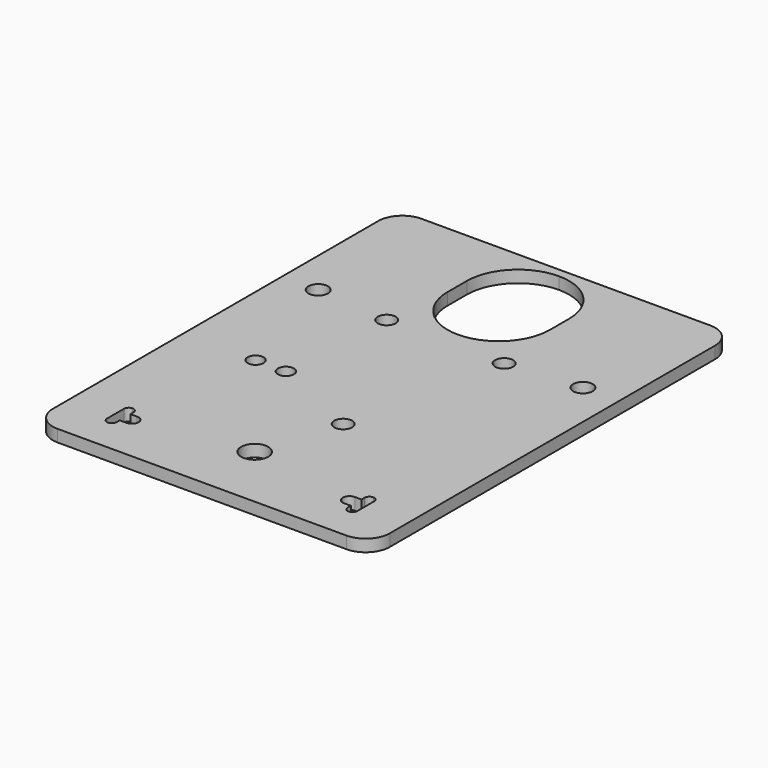
from build123d import *

# Parameters (mm, degrees)
F0_R     = 2.1082
F0_R_2   = 3.5687
F0_R_3   = 2.3749
F0_R_4   = 2.5781
F1_DEPTH = 3.175


with BuildPart() as f1:
    # F0 (on Top) → F1 (new body)
    with BuildSketch(Plane.XY):
        with BuildLine():
            Line((43.513716, 70.612), (-32.686284, 70.612))
            ThreePointArc((-32.686284, 70.612), (-37.176412, 68.752128), (-39.036284, 64.262))
            Line((-39.036284, 64.262), (-39.036284, -43.053))
            ThreePointArc((-39.036284, -43.053), (-37.176412, -47.543128), (-32.686284, -49.403))
            Line((-32.686284, -49.403), (43.513716, -49.403))
            ThreePointArc((43.513716, -49.403), (48.003844, -47.543128), (49.863716, -43.053))
            Line((49.863716, -43.053), (49.863716, 64.262))
            ThreePointArc((49.863716, 64.262), (48.003844, 68.752128), (43.513716, 70.612))
        make_face()
        with BuildLine():
            ThreePointArc((-26.336284, -32.6136), (-25.438259, -32.985574), (-25.066284, -33.8836))
            Line((-25.066284, -33.8836), (-25.066284, -34.8996))
            Line((-25.066284, -34.8996), (-23.288284, -34.8996))
            ThreePointArc((-23.288284, -34.8996), (-22.031048, -35.420364), (-21.510284, -36.6776))
            ThreePointArc((-21.510284, -36.6776), (-22.031048, -37.934836), (-23.288284, -38.4556))
            Line((-23.288284, -38.4556), (-25.066284, -38.4556))
            Line((-25.066284, -38.4556), (-25.066284, -39.4716))
            ThreePointArc((-25.066284, -39.4716), (-25.438259, -40.369626), (-26.336284, -40.7416))
            ThreePointArc((-26.336284, -40.7416), (-27.23431, -40.369626), (-27.606284, -39.4716))
            Line((-27.606284, -39.4716), (-27.606284, -33.8836))
            ThreePointArc((-27.606284, -33.8836), (-27.23431, -32.985574), (-26.336284, -32.6136))
        make_face(mode=Mode.SUBTRACT)
        with Locations((-19.986284, 0)):
            Circle(F0_R, mode=Mode.SUBTRACT)
        with Locations((-11.985284, 0)):
            Circle(F0_R, mode=Mode.SUBTRACT)
        with Locations((5.413716, -32.0294)):
            Circle(F0_R_2, mode=Mode.SUBTRACT)
        with BuildLine():
            Line((35.893716, -34.8996), (35.893716, -33.8836))
            ThreePointArc((35.893716, -33.8836), (36.26569, -32.985574), (37.163716, -32.6136))
            ThreePointArc((37.163716, -32.6136), (38.061741, -32.985574), (38.433716, -33.8836))
            Line((38.433716, -33.8836), (38.433716, -39.4716))
            ThreePointArc((38.433716, -39.4716), (38.061741, -40.369626), (37.163716, -40.7416))
            ThreePointArc((37.163716, -40.7416), (36.26569, -40.369626), (35.893716, -39.4716))
            Line((35.893716, -39.4716), (35.893716, -38.4556))
            Line((35.893716, -38.4556), (34.115716, -38.4556))
            ThreePointArc((34.115716, -38.4556), (32.85848, -37.934836), (32.337716, -36.6776))
            ThreePointArc((32.337716, -36.6776), (32.85848, -35.420364), (34.115716, -34.8996))
            Line((34.115716, -34.8996), (35.893716, -34.8996))
        make_face(mode=Mode.SUBTRACT)
        with Locations((11.916116, -10.9728)):
            Circle(F0_R_3, mode=Mode.SUBTRACT)
        with Locations((-29.511284, 32.5628)):
            Circle(F0_R_4, mode=Mode.SUBTRACT)
        with Locations((-10.080284, 30.861)):
            Circle(F0_R_3, mode=Mode.SUBTRACT)
        with BuildLine():
            Line((-8.086384, 48.4378), (-8.086384, 54.7878))
            ThreePointArc((-8.086384, 54.7878), (-4.132297, 64.333812), (5.413716, 68.2879))
            ThreePointArc((5.413716, 68.2879), (14.959728, 64.333812), (18.913816, 54.7878))
            Line((18.913816, 54.7878), (18.913816, 51.6128))
            Line((18.913816, 51.6128), (18.913816, 48.4378))
            ThreePointArc((18.913816, 48.4378), (14.959728, 38.891788), (5.413716, 34.9377))
            ThreePointArc((5.413716, 34.9377), (-4.132297, 38.891788), (-8.086384, 48.4378))
        make_face(mode=Mode.SUBTRACT)
        with Locations((20.907716, 30.861)):
            Circle(F0_R_3, mode=Mode.SUBTRACT)
        with Locations((40.338716, 32.5628)):
            Circle(F0_R_4, mode=Mode.SUBTRACT)
    extrude(amount=F1_DEPTH)


solid = f1.part
